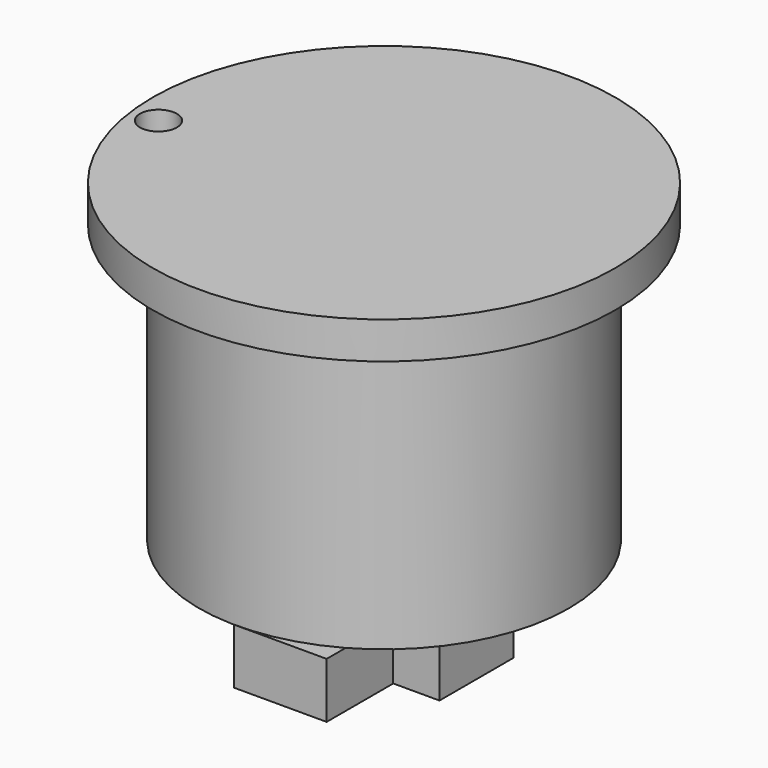
from build123d import *

# Parameters (mm, degrees)
F0_R     = 10
F1_DEPTH = 15
F2_R     = 12.5
F3_DEPTH = 2
F4_W     = 2.5
F4_H     = 5
F4_W_2   = 5
F4_H_2   = 2.5
F5_DEPTH = 5
F6_W     = 5
F6_H     = 3
F7_DEPTH = 2
F8_R     = 1
F9_DEPTH = 3


with BuildPart() as f1:
    # F0 (on Top) → F1 (new body)
    with BuildSketch(Plane.XY):
        Circle(F0_R)
    extrude(amount=F1_DEPTH)

    # F2 (on face) → F3 (join)
    with BuildSketch(Plane.XY.offset(15)):
        Circle(F2_R)
    extrude(amount=F3_DEPTH)

    # F4 (on face) → F5 (join)
    with BuildSketch(Plane(origin=(0, 0, 0), x_dir=(1, 0, 0), z_dir=(0, 0, -1))):
        with Locations((-3.75, 0)):
            Rectangle(F4_W, F4_H)
        with Locations((0, 3.75)):
            Rectangle(F4_W_2, F4_H_2)
        Rectangle(F4_W_2, F4_H)
        with Locations((3.75, 0)):
            Rectangle(F4_W, F4_H)
        with Locations((0, -3.75)):
            Rectangle(F4_W_2, F4_H_2)
    extrude(amount=F5_DEPTH)

    # F6 (on face) → F7 (join)
    with BuildSketch(Plane.XZ.offset(5)):
        with Locations((0, -3.5)):
            Rectangle(F6_W, F6_H)
    extrude(amount=F7_DEPTH)

    # F8 (on face) → F9 (cut)
    with BuildSketch(Plane.XY.offset(17)):
        with Locations((-10.9821680997, -1.5129518582)):
            Circle(F8_R)
    extrude(amount=-F9_DEPTH, mode=Mode.SUBTRACT)


solid = f1.part
